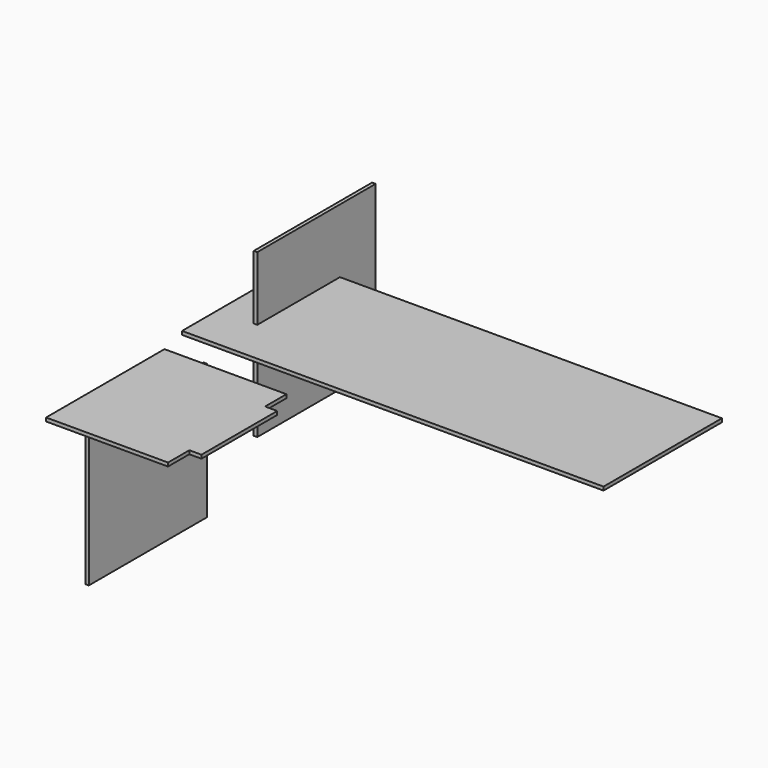
from build123d import *

# Parameters (mm, degrees)
F0_W     = 1424
F0_H     = 500
F1_DEPTH = 12
F2_W     = 500
F2_H     = 550
F3_DEPTH = 12
F5_DEPTH = 12
F6_W     = 500
F6_H     = 456
F7_DEPTH = 12


with BuildPart() as f1:
    # F0 (on Top) → F1 (new body)
    with BuildSketch(Plane.XY):
        with Locations((590.587484, 210.007116)):
            Rectangle(F0_W, F0_H)
    extrude(amount=F1_DEPTH)


with BuildPart() as f3:
    # F2 (on Right) → F3 (new body)
    with BuildSketch(Plane.YZ):
        with Locations((360.920265, -46.844786)):
            Rectangle(F2_W, F2_H)
    extrude(amount=F3_DEPTH)


with BuildPart() as f5:
    # F4 (on Top) → F5 (new body)
    with BuildSketch(Plane.XY):
        Polygon((319.487002, -150.359154), (-92.512998, -150.359154), (-92.512998, -650.359154), (319.487002, -650.359154), (319.487002, -560.359154), (360.487002, -560.359154), (360.487002, -240.359154), (319.487002, -240.359154), align=None)
    extrude(amount=F5_DEPTH)


with BuildPart() as f7:
    # F6 (on Right) → F7 (new body)
    with BuildSketch(Plane.YZ):
        with Locations((-350.556731, -245.931283)):
            Rectangle(F6_W, F6_H)
    extrude(amount=F7_DEPTH)


solid = Compound([f1.part, f3.part, f5.part, f7.part])
